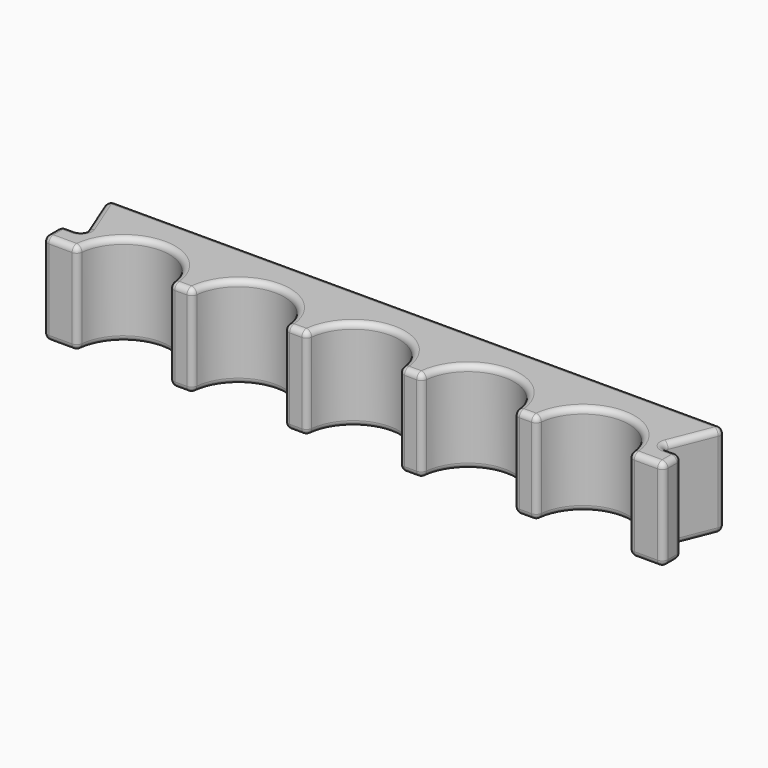
from build123d import *

# Parameters (mm, degrees)
F1_DEPTH = 8
F2_R     = 0.5


with BuildPart() as f1:
    # F0 (on Top) → F1 (new body)
    with BuildSketch(Plane.XY):
        with BuildLine():
            ThreePointArc((-3.97523196, 0.4444444444), (0, 4), (3.97523196, 0.4444444444))
            ThreePointArc((3.97523196, 0.4444444444), (4.1388026217, 0.1273220038), (4.472135955, 0))
            Line((4.472135955, 0), (5.527864045, 0))
            ThreePointArc((5.527864045, 0), (5.8611973783, 0.1273220038), (6.02476804, 0.4444444444))
            ThreePointArc((6.02476804, 0.4444444444), (10, 4), (13.97523196, 0.4444444444))
            ThreePointArc((13.97523196, 0.4444444444), (14.1388026217, 0.1273220038), (14.472135955, 0))
            Line((14.472135955, 0), (15.527864045, 0))
            ThreePointArc((15.527864045, 0), (15.8611973783, 0.1273220038), (16.02476804, 0.4444444444))
            ThreePointArc((16.02476804, 0.4444444444), (20, 4), (23.97523196, 0.4444444444))
            ThreePointArc((23.97523196, 0.4444444444), (24.1388026217, 0.1273220038), (24.472135955, 0))
            Line((24.472135955, 0), (26.5, 0))
            ThreePointArc((26.5, 0), (26.8535533906, 0.1464466094), (27, 0.5))
            Line((27, 0.5), (27, 1.5))
            ThreePointArc((27, 1.5), (26.8535533906, 1.8535533906), (26.5, 2))
            Line((26.5, 2), (25.7385164807, 2))
            ThreePointArc((25.7385164807, 2), (25.3244828655, 2.2196855953), (25.2742781353, 2.6856953382))
            Line((25.2742781353, 2.6856953382), (26.7257218647, 6.3143046618))
            ThreePointArc((26.7257218647, 6.3143046618), (26.6755171345, 6.7803144047), (26.2614835193, 7))
            Line((26.2614835193, 7), (-26.2614835193, 7))
            ThreePointArc((-26.2614835193, 7), (-26.6755171345, 6.7803144047), (-26.7257218647, 6.3143046618))
            Line((-26.7257218647, 6.3143046618), (-25.2742781353, 2.6856953382))
            ThreePointArc((-25.2742781353, 2.6856953382), (-25.3244828655, 2.2196855953), (-25.7385164807, 2))
            Line((-25.7385164807, 2), (-26.5, 2))
            ThreePointArc((-26.5, 2), (-26.8535533906, 1.8535533906), (-27, 1.5))
            Line((-27, 1.5), (-27, 0.5))
            ThreePointArc((-27, 0.5), (-26.8535533906, 0.1464466094), (-26.5, 0))
            Line((-26.5, 0), (-24.472135955, 0))
            ThreePointArc((-24.472135955, 0), (-24.1388026217, 0.1273220038), (-23.97523196, 0.4444444444))
            ThreePointArc((-23.97523196, 0.4444444444), (-20, 4), (-16.02476804, 0.4444444444))
            ThreePointArc((-16.02476804, 0.4444444444), (-15.8611973783, 0.1273220038), (-15.527864045, 0))
            Line((-15.527864045, 0), (-14.472135955, 0))
            ThreePointArc((-14.472135955, 0), (-14.1388026217, 0.1273220038), (-13.97523196, 0.4444444444))
            ThreePointArc((-13.97523196, 0.4444444444), (-10, 4), (-6.02476804, 0.4444444444))
            ThreePointArc((-6.02476804, 0.4444444444), (-5.8611973783, 0.1273220038), (-5.527864045, 0))
            Line((-5.527864045, 0), (-4.472135955, 0))
            ThreePointArc((-4.472135955, 0), (-4.1388026217, 0.1273220038), (-3.97523196, 0.4444444444))
        make_face()
    extrude(amount=F1_DEPTH)

    # F2
    f2_edges = [f1.edges().sort_by_distance(p)[0] for p in [
        (-20, 4, 8),
        (-15.861197, 0.127322, 8),
        (-15, 0, 8),
        (-14.138803, 0.127322, 8),
        (-10, 4, 8),
        (-5.861197, 0.127322, 8),
        (-5, 0, 8),
        (-4.138803, 0.127322, 8),
        (0, 4, 8),
        (4.138803, 0.127322, 8),
        (5, 0, 8),
        (5.861197, 0.127322, 8),
        (10, 4, 8),
        (14.138803, 0.127322, 8),
        (15, 0, 8),
        (15.861197, 0.127322, 8),
        (20, 4, 8),
        (24.138803, 0.127322, 8),
        (25.486068, 0, 8),
        (26.853553, 0.146447, 8),
        (27, 1, 8),
        (26.853553, 1.853553, 8),
        (26.119258, 2, 8),
        (25.324483, 2.219686, 8),
        (26, 4.5, 8),
        (26.675517, 6.780314, 8),
        (0, 7, 8),
        (-26.675517, 6.780314, 8),
        (-26, 4.5, 8),
        (-25.324483, 2.219686, 8),
        (-26.119258, 2, 8),
        (-26.853553, 1.853553, 8),
        (-27, 1, 8),
        (-26.853553, 0.146447, 8),
        (-25.486068, 0, 8),
        (-24.138803, 0.127322, 8),
        (-20, 4, 0),
        (-15.861197, 0.127322, 0),
        (-15, 0, 0),
        (-14.138803, 0.127322, 0),
        (-10, 4, 0),
        (-5.861197, 0.127322, 0),
        (-5, 0, 0),
        (-4.138803, 0.127322, 0),
        (0, 4, 0),
        (4.138803, 0.127322, 0),
        (5, 0, 0),
        (5.861197, 0.127322, 0),
        (10, 4, 0),
        (14.138803, 0.127322, 0),
        (15, 0, 0),
        (15.861197, 0.127322, 0),
        (20, 4, 0),
        (24.138803, 0.127322, 0),
        (25.486068, 0, 0),
        (26.853553, 0.146447, 0),
        (27, 1, 0),
        (26.853553, 1.853553, 0),
        (26.119258, 2, 0),
        (25.324483, 2.219686, 0),
        (26, 4.5, 0),
        (26.675517, 6.780314, 0),
        (0, 7, 0),
        (-26.675517, 6.780314, 0),
        (-26, 4.5, 0),
        (-25.324483, 2.219686, 0),
        (-26.119258, 2, 0),
        (-26.853553, 1.853553, 0),
        (-27, 1, 0),
        (-26.853553, 0.146447, 0),
        (-25.486068, 0, 0),
        (-24.138803, 0.127322, 0),
    ]]
    fillet(f2_edges, radius=F2_R)


solid = f1.part
